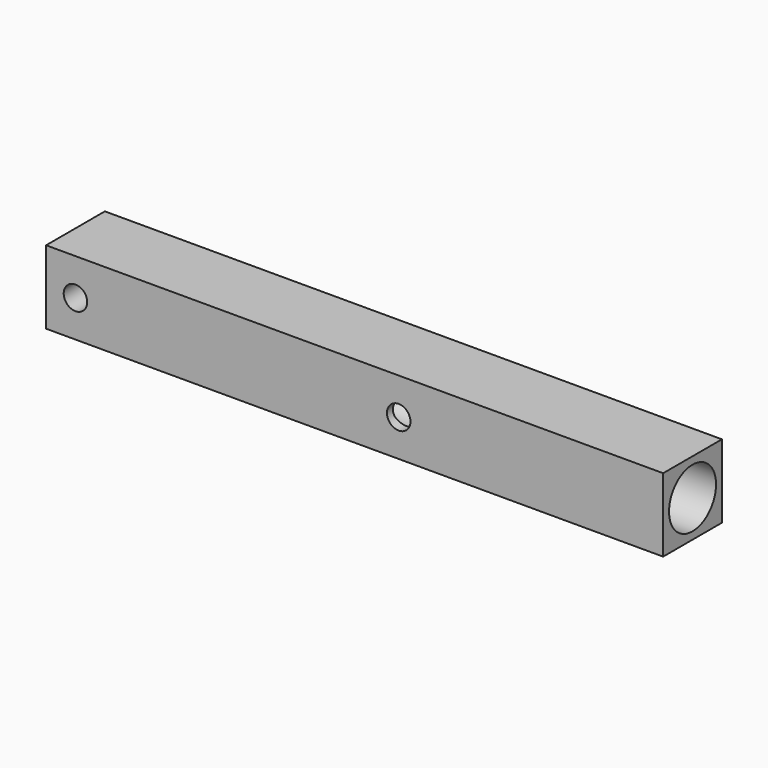
from build123d import *

# Parameters (mm, degrees)
F0_W     = 210
F0_H     = 25
F1_DEPTH = 25
F2_R     = 4
F3_DEPTH = 25.001
F4_R     = 10
F5_DEPTH = 110


with BuildPart() as f1:
    # F0 (on Top) → F1 (new body)
    with BuildSketch(Plane.XY):
        Rectangle(F0_W, F0_H)
    extrude(amount=F1_DEPTH)

    # F2 (on face) → F3 (cut, through all)
    with BuildSketch(Plane.XZ.offset(12.5)):
        with Locations((-95, 12.5)):
            Circle(F2_R)
        with Locations((15, 12.5)):
            Circle(F2_R)
    extrude(amount=-F3_DEPTH, mode=Mode.SUBTRACT)

    # F4 (on face) → F5 (cut)
    with BuildSketch(Plane.YZ.offset(105)):
        with Locations((0, 12.5)):
            Circle(F4_R)
    extrude(amount=-F5_DEPTH, mode=Mode.SUBTRACT)


solid = f1.part
